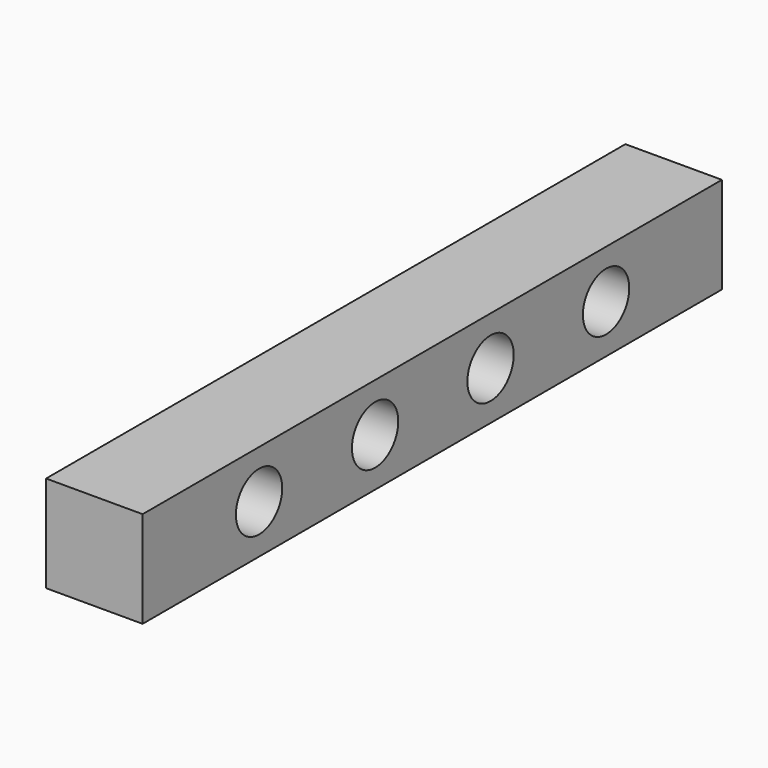
from build123d import *

# Parameters (mm, degrees)
F0_W     = 10
F0_H     = 10
F1_DEPTH = 75
F2_R     = 3
F3_DEPTH = 25


with BuildPart() as f1:
    # F0 (on Front) → F1 (new body)
    with BuildSketch(Plane.XZ):
        Rectangle(F0_W, F0_H)
    extrude(amount=F1_DEPTH)

    # F2 (on face) → F3 (cut)
    with BuildSketch(Plane(origin=(-5, 0, 0), x_dir=(0, -1, 0), z_dir=(-1, 0, 0))):
        with Locations((15, 0)):
            Circle(F2_R)
        with Locations((29.955307, 0)):
            Circle(F2_R)
        with Locations((44.902295, 0)):
            Circle(F2_R)
        with Locations((59.925947, 0.025223)):
            Circle(F2_R)
    extrude(amount=-F3_DEPTH, mode=Mode.SUBTRACT)


solid = f1.part
